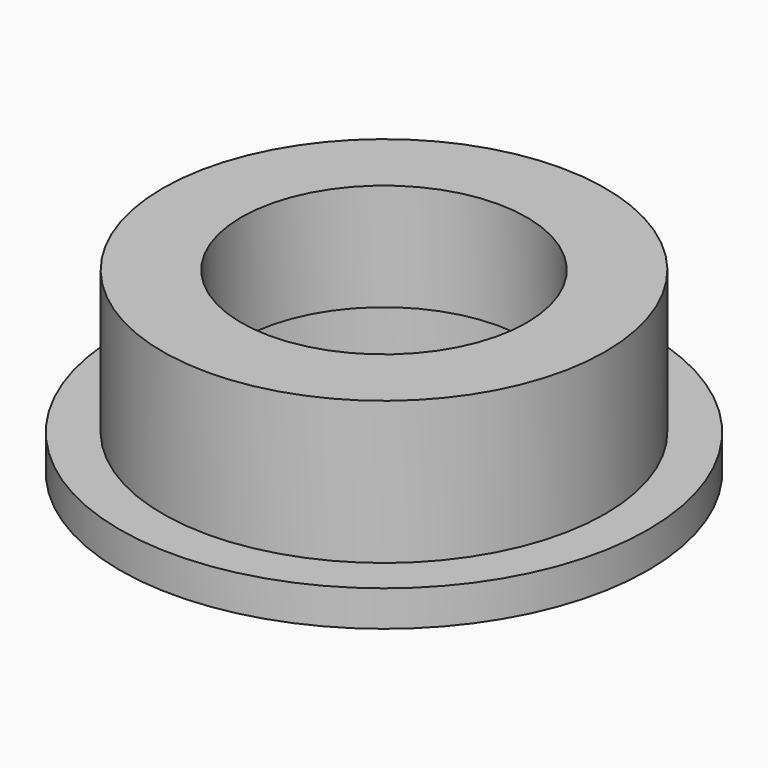
from build123d import *

# Parameters (mm, degrees)
F0_R     = 18.5
F1_DEPTH = 2.5
F2_R     = 15.5
F3_DEPTH = 10
F4_R     = 13.25
F5_DEPTH = 5
F6_R     = 10
F7_DEPTH = 7.501


with BuildPart() as f1:
    # F0 (on Top) → F1 (new body)
    with BuildSketch(Plane.XY):
        Circle(F0_R)
    extrude(amount=F1_DEPTH)

    # F2 (on face) → F3 (join)
    with BuildSketch(Plane.XY.offset(2.5)):
        Circle(F2_R)
    extrude(amount=F3_DEPTH)

    # F4 (on face) → F5 (cut)
    with BuildSketch(Plane(origin=(0, 0, 0), x_dir=(1, 0, 0), z_dir=(0, 0, -1))):
        Circle(F4_R)
    extrude(amount=-F5_DEPTH, mode=Mode.SUBTRACT)

    # F6 (on face) → F7 (cut, through all)
    with BuildSketch(Plane(origin=(0, 0, 5), x_dir=(1, 0, 0), z_dir=(0, 0, -1))):
        Circle(F6_R)
    extrude(amount=-F7_DEPTH, mode=Mode.SUBTRACT)


solid = f1.part
